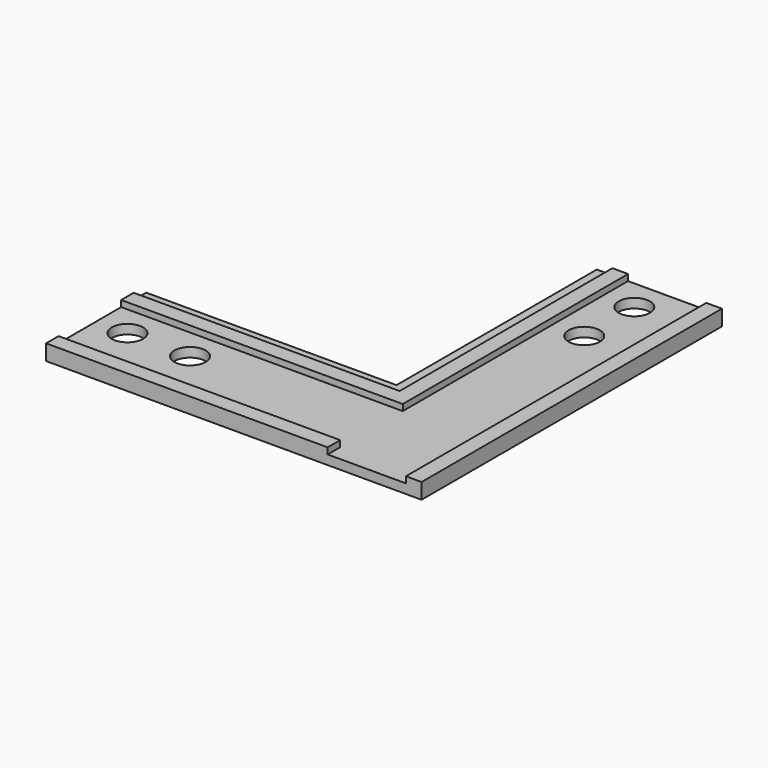
from build123d import *

# Parameters (mm, degrees)
F1_DEPTH = 3.175
F3_DEPTH = 1.27
F4_R     = 3.175
F5_DEPTH = 25.4


with BuildPart() as f1:
    # F0 (on Top) → F1 (new body)
    with BuildSketch(Plane.XY):
        Polygon((-76.2, 0), (0, 0), (0, 76.2), (-25.4, 76.2), (-25.4, 25.4), (-76.2, 25.4), align=None)
    extrude(amount=F1_DEPTH)

    # F2 (on face) → F3 (cut)
    with BuildSketch(Plane.XY.offset(3.175)):
        Polygon((-22.225, 76.2), (-25.4, 76.2), (-25.4, 25.4), (-76.2, 25.4), (-76.2, 22.225), (-25.4, 22.225), (-22.225, 22.225), (-22.225, 25.4), align=None)
        Polygon((-3.175, 76.2), (-19.05, 76.2), (-19.05, 19.05), (-76.2, 19.05), (-76.2, 3.175), (-19.05, 3.175), (-19.05, 0), (-3.175, 0), align=None)
    extrude(amount=-F3_DEPTH, mode=Mode.SUBTRACT)

    # F4 (on face) → F5 (cut)
    with BuildSketch(Plane.XY.offset(3.175)):
        with Locations((-12.7, 69.85)):
            Circle(F4_R)
        with Locations((-12.7, 57.15)):
            Circle(F4_R)
        with Locations((-57.15, 12.7)):
            Circle(F4_R)
        with Locations((-69.85, 12.7)):
            Circle(F4_R)
    extrude(amount=-F5_DEPTH, mode=Mode.SUBTRACT)


solid = f1.part
